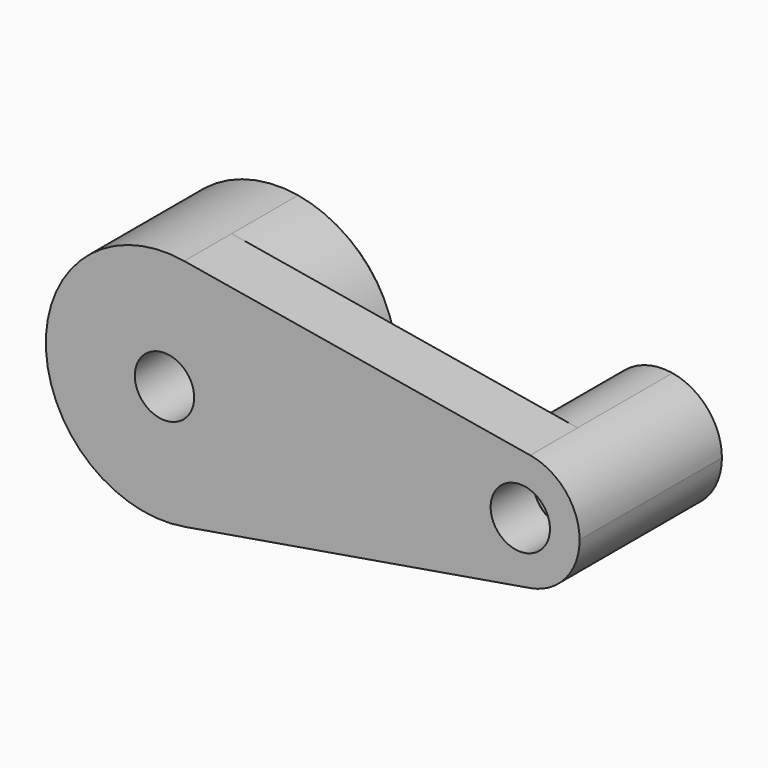
from build123d import *

# Parameters (mm, degrees)
F0_R     = 10
F1_DEPTH = 20
F2_DEPTH = 30
F3_SIZE  = 2
F4_DEPTH = 40


with BuildPart() as f1:
    # F0 (on Front) → F1 (new body)
    with BuildSketch(Plane.XZ):
        with BuildLine():
            ThreePointArc((6.666667, 39.440532), (30.550505, 25.819889), (40, 0))
            ThreePointArc((40, 0), (30.550505, -25.819889), (6.666667, -39.440532))
            Line((6.666667, -39.440532), (123.333333, -19.720266))
            ThreePointArc((123.333333, -19.720266), (100, 0), (123.333333, 19.720266))
            Line((123.333333, 19.720266), (6.666667, 39.440532))
        make_face()
        with BuildLine():
            ThreePointArc((140, 0), (135.275252, 12.909944), (123.333333, 19.720266))
            ThreePointArc((123.333333, 19.720266), (100, 0), (123.333333, -19.720266))
            ThreePointArc((123.333333, -19.720266), (135.275252, -12.909944), (140, 0))
        make_face()
        with Locations((120, 0)):
            Circle(F0_R, mode=Mode.SUBTRACT)
        with BuildLine():
            ThreePointArc((6.666667, -39.440532), (30.550505, -25.819889), (40, 0))
            ThreePointArc((40, 0), (30.550505, 25.819889), (6.666667, 39.440532))
            ThreePointArc((6.666667, 39.440532), (-40, 0), (6.666667, -39.440532))
        make_face()
        Circle(F0_R, mode=Mode.SUBTRACT)
    extrude(amount=F1_DEPTH)

    # F0 (on Front) → F2 (join)
    with BuildSketch(Plane.XZ):
        with BuildLine():
            ThreePointArc((6.666667, -39.440532), (30.550505, -25.819889), (40, 0))
            ThreePointArc((40, 0), (30.550505, 25.819889), (6.666667, 39.440532))
            ThreePointArc((6.666667, 39.440532), (-40, 0), (6.666667, -39.440532))
        make_face()
        Circle(F0_R, mode=Mode.SUBTRACT)
    extrude(amount=-F2_DEPTH)

    # F3
    f3_edges = [f1.edges().sort_by_distance(p)[0] for p in [
        (-10, 30, 0),
        (-6.666667, 30, 39.440532),
        (110, 0, 0),
    ]]
    chamfer(f3_edges, length=F3_SIZE)

    # F0 (on Front) → F4 (join)
    with BuildSketch(Plane.XZ):
        with BuildLine():
            ThreePointArc((140, 0), (135.275252, 12.909944), (123.333333, 19.720266))
            ThreePointArc((123.333333, 19.720266), (100, 0), (123.333333, -19.720266))
            ThreePointArc((123.333333, -19.720266), (135.275252, -12.909944), (140, 0))
        make_face()
        with Locations((120, 0)):
            Circle(F0_R, mode=Mode.SUBTRACT)
    extrude(amount=-F4_DEPTH)


solid = f1.part
